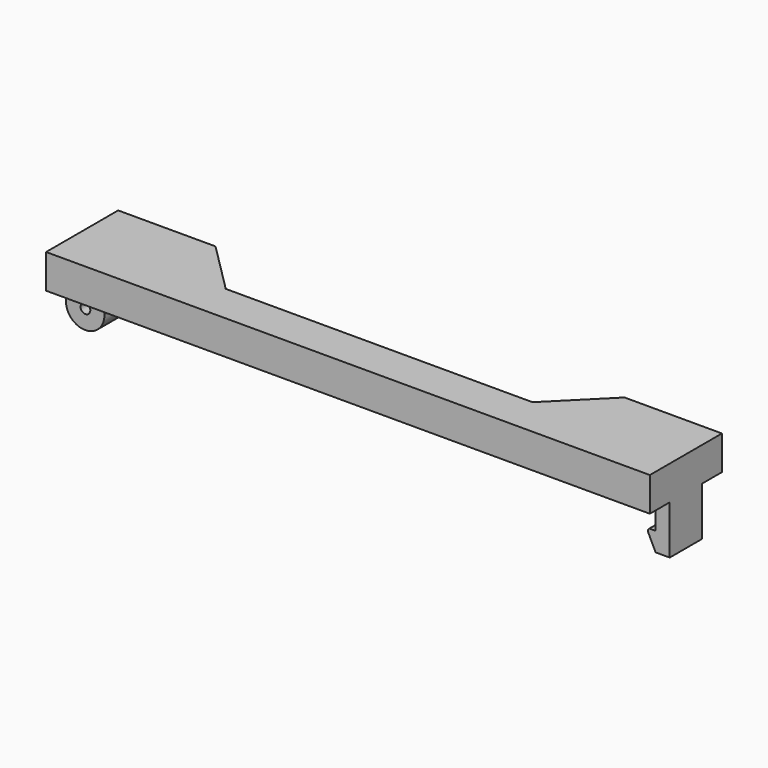
from build123d import *

# Parameters (mm, degrees)
PAD002_DEPTH    = 7
PAD003_DEPTH    = 3
CHAMFER003_SIZE = 1.5
SKETCH009_W     = 7.9
SKETCH009_H     = 8.3
PAD004_DEPTH    = 7.9
FILLET001_R     = 3.94
SKETCH010_R     = 1
HOLE002_DEPTH   = 25
SKETCH012_W     = 2.9
SKETCH012_H     = 8.3
PAD005_DEPTH    = 10
PAD006_DEPTH    = 8.3
FILLET002_R     = 0.5


with BuildPart() as part:
    # Sketch006 → Pad002 (new body)
    with BuildSketch(Plane.XY.offset(4)):
        Polygon((-62, 2.5), (-62, -16), (62, -16), (62, 2.5), (42, 2.5), (31.5, -8), (-31.5, -8), (-42, 2.5), align=None)
    extrude(amount=PAD002_DEPTH)

    # Sketch007 (on Face9 of Pad002) → Pad003 (join)
    with BuildSketch(Plane(origin=(0, 0, 4), x_dir=(1, 0, 0), z_dir=(0, 0, -1))):
        with BuildLine():
            Line((-31.5, 8), (31.5, 8))
            Line((37.293259, 2.206741), (31.5, 8))
            Line((38.566051, 3.479533), (37.293259, 2.206741))
            Line((32.772792, 9.272792), (38.566051, 3.479533))
            ThreePointArc((32.772792, 9.272792), (32.18883, 9.662983), (31.5, 9.8))
            Line((31.5, 9.8), (-31.5, 9.8))
            ThreePointArc((-31.5, 9.8), (-32.18883, 9.662983), (-32.772792, 9.272792))
            Line((-38.566051, 3.479533), (-32.772792, 9.272792))
            Line((-37.293259, 2.206741), (-38.566051, 3.479533))
            Line((-31.5, 8), (-37.293259, 2.206741))
        make_face()
    extrude(amount=PAD003_DEPTH)

    # Chamfer003
    chamfer003_edges = [part.edges().sort_by_distance(p)[0] for p in [
        (-35.669422, -6.376163, 4),
    ]]
    chamfer(chamfer003_edges, length=CHAMFER003_SIZE)

    # Sketch009 (on Face1 of Chamfer003) → Pad004 (join)
    with BuildSketch(Plane(origin=(0, 0, 4), x_dir=(1, 0, 0), z_dir=(0, 0, -1))):
        with Locations((-58.05, 6.75)):
            Rectangle(SKETCH009_W, SKETCH009_H)
    extrude(amount=PAD004_DEPTH)

    # Fillet001
    fillet001_edges = [part.edges().sort_by_distance(p)[0] for p in [
        (-54.1, -6.75, -3.9),
        (-62, -6.75, -3.9),
    ]]
    fillet(fillet001_edges, radius=FILLET001_R)

    # Sketch010 (on Face1 of Fillet001) → Hole002 (cut)
    with BuildSketch(Plane.XZ.offset(10.9)):
        with Locations((-58, 0)):
            Circle(SKETCH010_R)
    extrude(amount=-HOLE002_DEPTH, mode=Mode.SUBTRACT)

    # Sketch012 (on Face4 of Hole002) → Pad005 (join)
    with BuildSketch(Plane(origin=(0, 0, 4), x_dir=(1, 0, 0), z_dir=(0, 0, -1))):
        with Locations((60.55, 6.75)):
            Rectangle(SKETCH012_W, SKETCH012_H)
    extrude(amount=PAD005_DEPTH)

    # Sketch013 (on Face21 of Pad005) → Pad006 (join)
    with BuildSketch(Plane.XZ.offset(10.9)):
        Polygon((59.1, -6), (57.2, -2.1), (59.1, -2.1), align=None)
    extrude(amount=-PAD006_DEPTH)

    # Fillet002
    fillet002_edges = [part.edges().sort_by_distance(p)[0] for p in [
        (57.2, -6.75, -2.1),
    ]]
    fillet(fillet002_edges, radius=FILLET002_R)


solid = part.part
